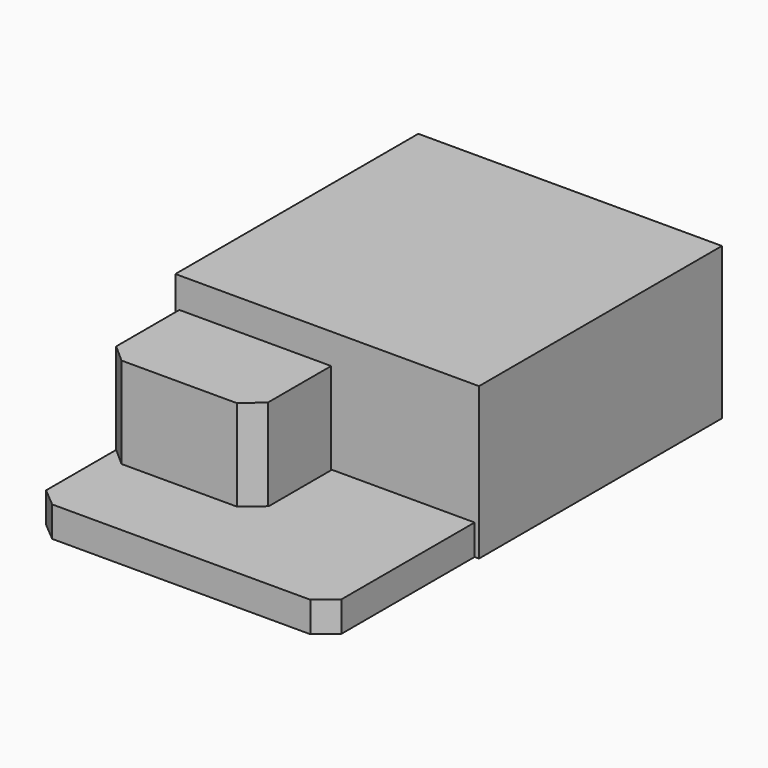
from build123d import *

# Parameters (mm, degrees)
F0_W     = 254
F0_H     = 254
F2_DEPTH = 127
F3_DEPTH = 101.6
F5_DEPTH = 25.4


with BuildPart() as f2:
    # F0 (on Top) → F2 (new body)
    with BuildSketch(Plane.XY):
        with Locations((-4.570606, 150.885063)):
            Rectangle(F0_W, F0_H)
    extrude(amount=F2_DEPTH)

    # F1 (on face) → F3 (join)
    with BuildSketch(Plane.XY):
        Polygon((-1.268606, 23.885063), (-128.268606, 23.885063), (-128.268606, -42.154937), (-113.028606, -55.595354), (-16.508606, -55.595354), (-1.268606, -42.154937), align=None)
    extrude(amount=F3_DEPTH)

    # F4 (on Top) → F5 (join)
    with BuildSketch(Plane.XY):
        Polygon((103.190219, -128.514937), (118.749044, -115.44492), (118.749044, 23.885063), (-0.630956, 23.885063), (-0.630956, -42.154937), (-16.189781, -55.224955), (-112.709781, -55.224955), (-128.268606, -42.154937), (-128.268606, -115.44492), (-112.709781, -128.514937), align=None)
    extrude(amount=F5_DEPTH)


solid = f2.part
